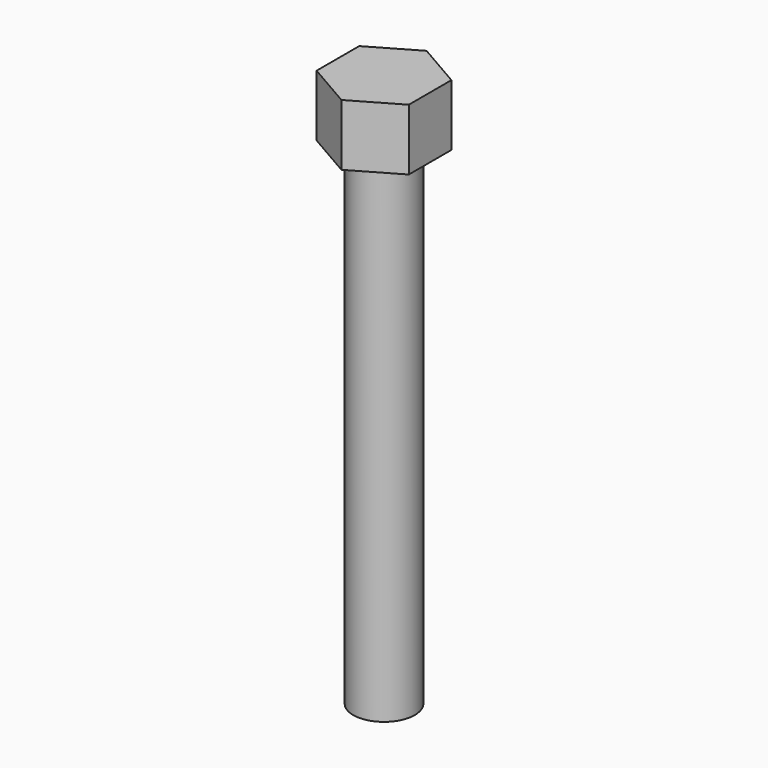
from build123d import *

# Parameters (mm, degrees)
PAD_DEPTH    = 6.35
SKETCH001_R  = 3.175
PAD001_DEPTH = 50.8


with BuildPart() as part:
    # Sketch → Pad (new body)
    with BuildSketch(Plane.XY):
        Polygon((4.7625, 2.749631), (0, 5.499261), (-4.7625, 2.749631), (-4.7625, -2.749631), (0, -5.499261), (4.7625, -2.749631), align=None)
    extrude(amount=-PAD_DEPTH)

    # Sketch001 (on Face8 of Pad) → Pad001 (join)
    with BuildSketch(Plane(origin=(0, 0, -6.35), x_dir=(1, 0, 0), z_dir=(0, 0, -1))):
        Circle(SKETCH001_R)
    extrude(amount=PAD001_DEPTH)


solid = part.part
